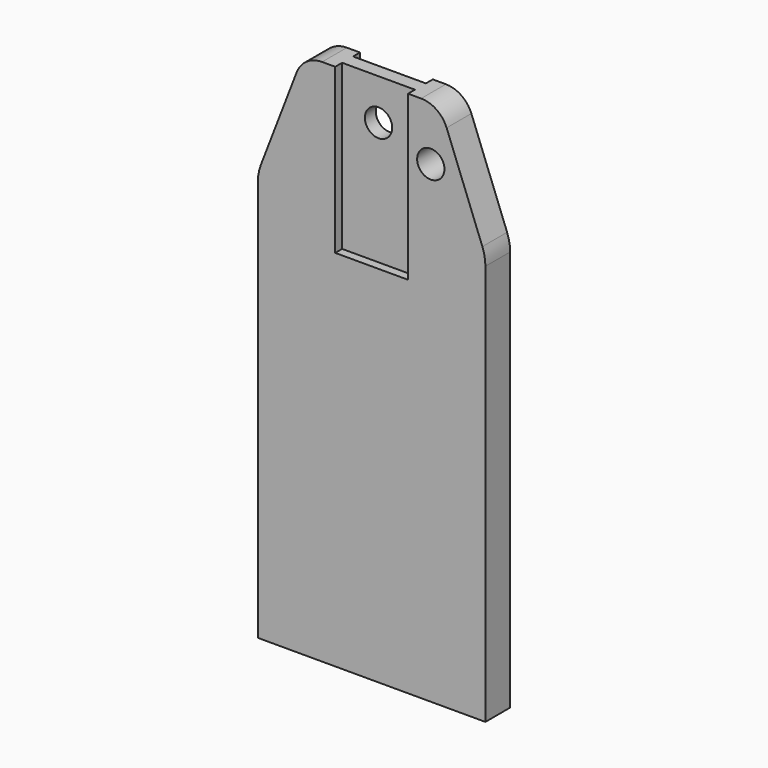
from build123d import *

# Parameters (mm, degrees)
F1_R     = 1.5
F1_W     = 15
F1_H     = 13
F2_DEPTH = 3.4
F3_W     = 8
F3_H     = 0.95
F4_DEPTH = 18
F5_DEPTH = 18
F6_R     = 3
F7_R     = 3
F8_R     = 5
F9_R     = 5


with BuildPart() as f2:
    # F1 (on Front) → F2 (new body)
    with BuildSketch(Plane.XZ):
        Polygon((12.5, -22.5), (12.5, 22.5), (7.5, 22.5), (7.5, 9.5), (-7.5, 9.5), (-7.5, 22.5), (-12.5, 22.5), (-12.5, -22.5), align=None)
        with BuildLine():
            Line((7.5, 22.5), (12.5, 22.5))
            Line((12.5, 22.5), (7.5, 35.5))
            Line((7.5, 35.5), (7.5, 30.6180339887))
            ThreePointArc((7.5, 30.6180339887), (7.8693063938, 30.1123724357), (8, 29.5))
            ThreePointArc((8, 29.5), (7.8693063938, 28.8876275643), (7.5, 28.3819660113))
            Line((7.5, 28.3819660113), (7.5, 22.5))
        make_face()
        with BuildLine():
            Line((-7.5, 22.5), (7.5, 22.5))
            Line((7.5, 22.5), (7.5, 28.3819660113))
            ThreePointArc((7.5, 28.3819660113), (5, 29.5), (7.5, 30.6180339887))
            Line((7.5, 30.6180339887), (7.5, 35.5))
            Line((7.5, 35.5), (-7.5, 35.5))
            Line((-7.5, 35.5), (-7.5, 22.5))
        make_face()
        with Locations((0, 31)):
            Circle(F1_R, mode=Mode.SUBTRACT)
        Polygon((-12.5, 22.5), (-7.5, 22.5), (-7.5, 35.5), align=None)
        with Locations((0, 16)):
            Rectangle(F1_W, F1_H)
    extrude(amount=F2_DEPTH)

    # F3 (on face) → F4 (cut)
    with BuildSketch(Plane.XY.offset(35.5)):
        with Locations((0, -0.475)):
            Rectangle(F3_W, F3_H)
    extrude(amount=-F4_DEPTH, mode=Mode.SUBTRACT)

    # F3 (on face) → F5 (cut)
    with BuildSketch(Plane.XY.offset(35.5)):
        with Locations((0, -2.925)):
            Rectangle(F3_W, F3_H)
    extrude(amount=-F5_DEPTH, mode=Mode.SUBTRACT)

    # F6
    f6_edges = [f2.edges().sort_by_distance(p)[0] for p in [
        (-7.5, -1.7, 35.5),
    ]]
    fillet(f6_edges, radius=F6_R)

    # F7
    f7_edges = [f2.edges().sort_by_distance(p)[0] for p in [
        (7.5, -1.7, 35.5),
    ]]
    fillet(f7_edges, radius=F7_R)

    # F8
    f8_edges = [f2.edges().sort_by_distance(p)[0] for p in [
        (12.5, -1.7, 22.5),
    ]]
    fillet(f8_edges, radius=F8_R)

    # F9
    f9_edges = [f2.edges().sort_by_distance(p)[0] for p in [
        (-12.5, -1.7, 22.5),
    ]]
    fillet(f9_edges, radius=F9_R)


solid = f2.part
